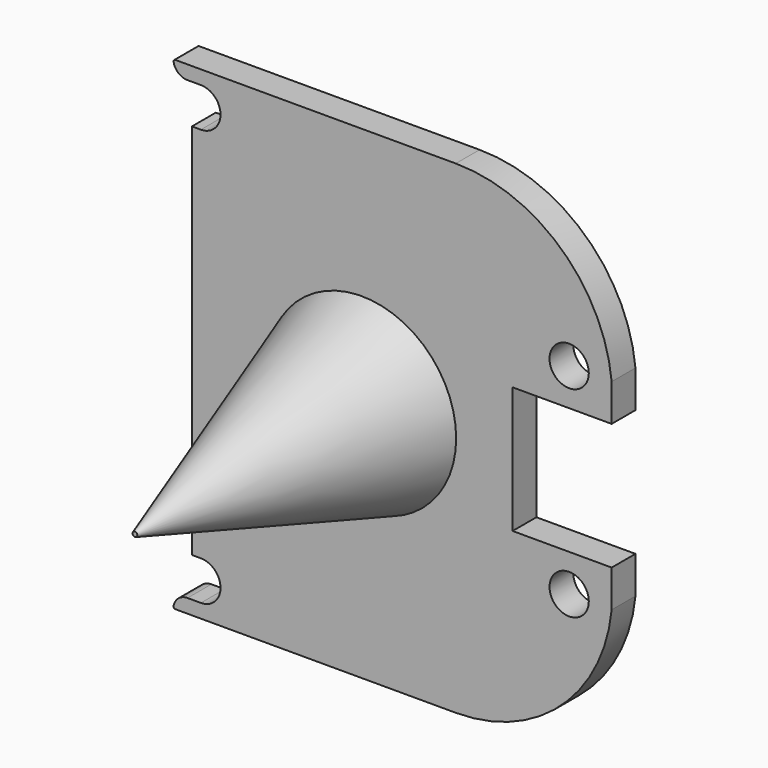
from build123d import *

# Parameters (mm, degrees)
F0_W     = 68.5234218836
F0_H     = 74.8608410358
F1_DEPTH = 4
F2_R     = 2.63906
F3_DEPTH = 4.001
F4_W     = 1.2
F4_H     = 50.72188
F5_DEPTH = 4
F6_R     = 0.254
F7_R     = 12.7
F8_DEPTH = 38.1
F8_TAPER = 18


with BuildPart() as f1:
    # F0 (on Front) → F1 (new body)
    with BuildSketch(Plane.XZ):
        Rectangle(F0_W, F0_H)
    extrude(amount=F1_DEPTH)

    # F2 (on face) → F3 (cut, through all)
    with BuildSketch(Plane.XZ.offset(4)):
        with Locations((-34.2617109418, 28)):
            Circle(F2_R)
        with Locations((15.2382890582, 13.5)):
            Circle(F2_R)
        with Locations((-34.2617109418, -28)):
            Circle(F2_R)
        with Locations((15.2382890582, -13.5)):
            Circle(F2_R)
        with BuildLine():
            Line((20.95, 8.5), (7.6382890582, 8.5))
            Line((7.6382890582, 8.5), (7.6382890582, 0))
            Line((7.6382890582, 0), (34.2617109418, 0))
            Line((34.2617109418, 0), (34.2617109418, 8.5))
            Line((34.2617109418, 8.5), (34.2617109418, 37.4304205179))
            Line((34.2617109418, 37.4304205179), (-34.2617109418, 37.4304205179))
            Line((-34.2617109418, 37.4304205179), (-34.2617109418, 32.5))
            Line((-34.2617109418, 32.5), (0, 32.5))
            ThreePointArc((0, 32.5), (14.1412738111, 27.0425492812), (20.95, 13.5))
            Line((20.95, 13.5), (20.95, 8.5))
        make_face()
        with BuildLine():
            Line((34.2617109418, 0), (7.6382890582, 0))
            Line((7.6382890582, 0), (7.6382890582, -8.5))
            Line((7.6382890582, -8.5), (20.95, -8.5))
            Line((20.95, -8.5), (20.95, -13.5))
            ThreePointArc((20.95, -13.5), (14.1412738111, -27.0425492812), (0, -32.5))
            Line((0, -32.5), (-34.2617109418, -32.5))
            Line((-34.2617109418, -32.5), (-34.2617109418, -37.4304205179))
            Line((-34.2617109418, -37.4304205179), (34.2617109418, -37.4304205179))
            Line((34.2617109418, -37.4304205179), (34.2617109418, -8.5))
            Line((34.2617109418, -8.5), (34.2617109418, 0))
        make_face()
    extrude(amount=-F3_DEPTH, mode=Mode.SUBTRACT)

    # F4 (on face) → F5 (join, through all)
    with BuildSketch(Plane.XZ.offset(4)):
        with BuildLine():
            Line((-34.2617109418, -32.5), (-34.2617109418, -30.63906))
            Line((-34.2617109418, -30.63906), (-36.0617109418, -30.63906))
            ThreePointArc((-36.0617109418, -30.63906), (-37.3930806688, -31.1815330645), (-37.9662013504, -32.5))
            Line((-37.9662013504, -32.5), (-34.2617109418, -32.5))
        make_face()
        with Locations((-34.8617109418, 0)):
            Rectangle(F4_W, F4_H)
        with BuildLine():
            Line((-36.0617109418, 30.63906), (-34.2617109418, 30.63906))
            Line((-34.2617109418, 30.63906), (-34.2617109418, 32.5))
            Line((-34.2617109418, 32.5), (-37.9662013504, 32.5))
            ThreePointArc((-37.9662013504, 32.5), (-37.3930806688, 31.1815330645), (-36.0617109418, 30.63906))
        make_face()
    extrude(amount=-F5_DEPTH)

    # F6
    f6_edges = [f1.edges().sort_by_distance(p)[0] for p in [
        (-37.966201, -2, -32.5),
        (-37.966201, -2, 32.5),
    ]]
    fillet(f6_edges, radius=F6_R)

    # F7 (on face) → F8 (join)
    with BuildSketch(Plane.XZ.offset(4)):
        with Locations((-12.6483709418, 0)):
            Circle(F7_R)
    extrude(amount=F8_DEPTH, taper=F8_TAPER)


solid = f1.part
